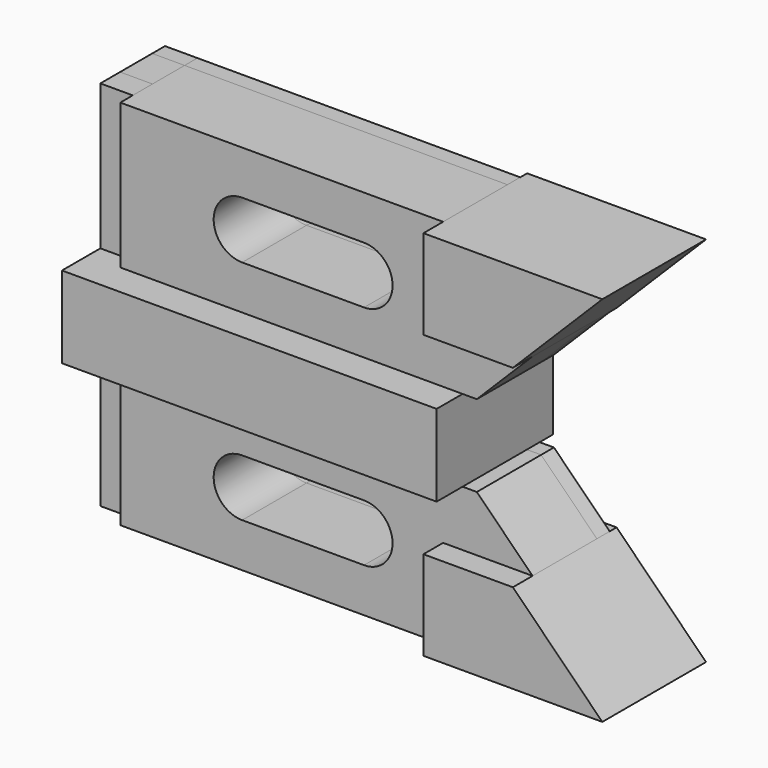
from build123d import *

# Parameters (mm, degrees)
F1_DEPTH = 12.7
F2_DEPTH = 14.224
F3_DEPTH = 7.874
F0_W     = 6.35
F0_H     = 28.448
F4_DEPTH = 4.826
F5_DEPTH = 7.8748036176
F6_DEPTH = 3.1338469125


with BuildPart() as f1:
    # F0 (on Front) → F1 (new body, symmetric)
    with BuildSketch(Plane.XZ):
        Polygon((32.893, 18.923), (50.419, 18.923), (67.945, 36.449), (32.893, 36.449), align=None)
    extrude(amount=F1_DEPTH, both=True)


with BuildPart() as f2:
    # F0 (on Front) → F2 (new body, symmetric)
    with BuildSketch(Plane.XZ):
        Polygon((36.703, -8.001), (36.703, 8.001), (-30.353, 8.001), (-36.703, 8.001), (-36.703, -8.001), align=None)
    extrude(amount=F2_DEPTH, both=True)


with BuildPart() as f3:
    # F0 (on Front) → F3 (new body, symmetric)
    with BuildSketch(Plane.XZ):
        Polygon((-30.353, 8.001), (36.703, 8.001), (39.497, 8.001), (50.419, 18.923), (32.893, 18.923), (32.893, 36.449), (-30.353, 36.449), align=None)
        with BuildLine():
            ThreePointArc((-6.477, 16.637), (-12.065, 22.225), (-6.477, 27.813))
            Line((-6.477, 27.813), (17.399, 27.813))
            ThreePointArc((17.399, 27.813), (21.3503126933, 26.1763126933), (22.987, 22.225))
            ThreePointArc((22.987, 22.225), (21.3503126933, 18.2736873067), (17.399, 16.637))
            Line((17.399, 16.637), (-6.477, 16.637))
        make_face(mode=Mode.SUBTRACT)
    extrude(amount=F3_DEPTH, both=True)


with BuildPart() as f4:
    # F0 (on Front) → F4 (new body)
    with BuildSketch(Plane.XZ):
        with Locations((-33.528, 22.225)):
            Rectangle(F0_W, F0_H)
    extrude(amount=F4_DEPTH)


with BuildPart() as f5:
    # F0 (on Front) → F5 (new body)
    with BuildSketch(Plane.XZ):
        with Locations((-33.528, 22.225)):
            Rectangle(F0_W, F0_H)
    extrude(amount=-F5_DEPTH)


with BuildPart() as f6:
    # F6 (new): a face of the model
    f6_faces = [f5.part.faces().sort_by_distance(p)[0] for p in [
        (-33.528, 7.8748036176, 22.225),
    ]]
    extrude(f6_faces, amount=F6_DEPTH)


with BuildPart() as f6b:
    # F6#2 (new): a face of the model
    f6_2_faces = [f3.part.faces().sort_by_distance(p)[0] for p in [
        (4.572, 7.874, 8.8573530048),
    ]]
    extrude(f6_2_faces, amount=F6_DEPTH)


with BuildPart() as f7_1:
    # F7: instance of F2
    add(f2.part.mirror(Plane.XY))


with BuildPart() as f7_2:
    # F7: instance of F3
    add(f3.part.mirror(Plane.XY))


with BuildPart() as f7_3:
    # F7: instance of F4
    add(f4.part.mirror(Plane.XY))


with BuildPart() as f7_4:
    # F7: instance of F5
    add(f5.part.mirror(Plane.XY))


with BuildPart() as f7_5:
    # F7: instance of F6
    add(f6.part.mirror(Plane.XY))


with BuildPart() as f7_6:
    # F7: instance of F6b
    add(f6b.part.mirror(Plane.XY))


with BuildPart() as f7_7:
    # F7: instance of F1
    add(f1.part.mirror(Plane.XY))


solid = Compound([f1.part, f2.part, f3.part, f4.part, f5.part, f6.part, f6b.part, f7_1.part, f7_2.part, f7_3.part, f7_4.part, f7_5.part, f7_6.part, f7_7.part])
